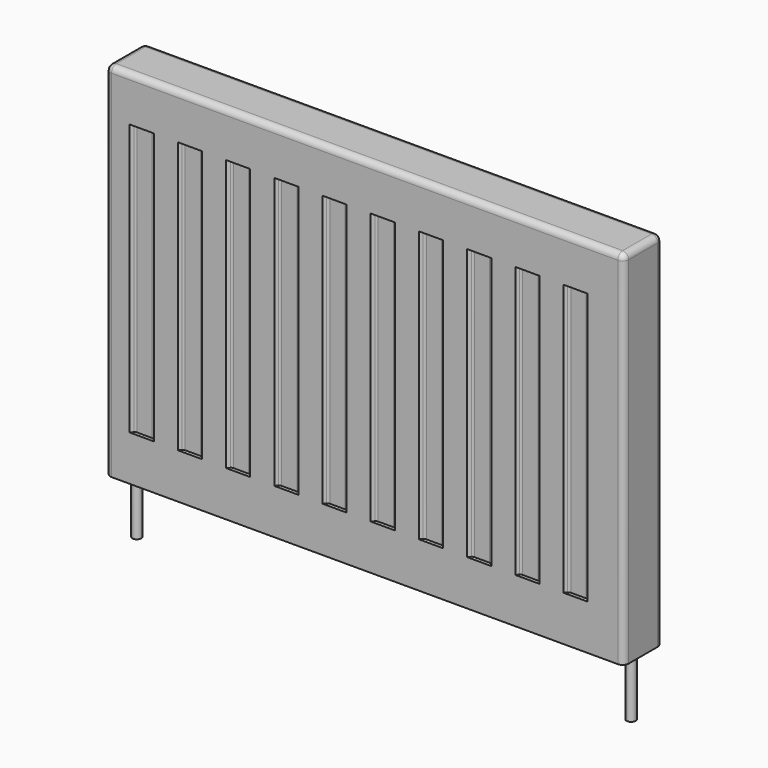
from build123d import *

# Parameters (mm, degrees)
F0_W     = 860
F0_H     = 80
F1_DEPTH = 300
F2_R     = 7.5
F3_DEPTH = 100
F5_DEPTH = 225
F6_R     = 10


with BuildPart() as f1:
    # F0 (on Top) → F1 (new body, symmetric)
    with BuildSketch(Plane.XY):
        with Locations((84.33931, -58.683639)):
            Rectangle(F0_W, F0_H)
    extrude(amount=F1_DEPTH, both=True)

    # F2 (on face) → F3 (join)
    with BuildSketch(Plane(origin=(0, 0, -300), x_dir=(1, 0, 0), z_dir=(0, 0, -1))):
        with Locations((494.33931, 58.683639)):
            Circle(F2_R)
        with Locations((-325.66069, 58.683639)):
            Circle(F2_R)
    extrude(amount=F3_DEPTH)

    # F4 (on Top) → F5 (cut, symmetric)
    with BuildSketch(Plane.XY):
        with BuildLine():
            Line((-265.66069, -18.683639), (-305.66069, -18.683639))
            Line((-305.66069, -18.683639), (-302.124776, -22.897577))
            ThreePointArc((-302.124776, -22.897577), (-300.407645, -24.215178), (-298.294554, -24.683639))
            Line((-298.294554, -24.683639), (-273.026826, -24.683639))
            ThreePointArc((-273.026826, -24.683639), (-270.913735, -24.215178), (-269.196604, -22.897577))
            Line((-269.196604, -22.897577), (-265.66069, -18.683639))
        make_face()
        with BuildLine():
            Line((-185.66069, -18.683639), (-225.66069, -18.683639))
            Line((-225.66069, -18.683639), (-222.124776, -22.897577))
            ThreePointArc((-222.124776, -22.897577), (-220.407645, -24.215178), (-218.294554, -24.683639))
            Line((-218.294554, -24.683639), (-193.026826, -24.683639))
            ThreePointArc((-193.026826, -24.683639), (-190.913735, -24.215178), (-189.196604, -22.897577))
            Line((-189.196604, -22.897577), (-185.66069, -18.683639))
        make_face()
        with BuildLine():
            Line((-105.66069, -18.683639), (-145.66069, -18.683639))
            Line((-145.66069, -18.683639), (-142.124776, -22.897577))
            ThreePointArc((-142.124776, -22.897577), (-140.407645, -24.215178), (-138.294554, -24.683639))
            Line((-138.294554, -24.683639), (-113.026826, -24.683639))
            ThreePointArc((-113.026826, -24.683639), (-110.913735, -24.215178), (-109.196604, -22.897577))
            Line((-109.196604, -22.897577), (-105.66069, -18.683639))
        make_face()
        with BuildLine():
            Line((-25.66069, -18.683639), (-65.66069, -18.683639))
            Line((-65.66069, -18.683639), (-62.124776, -22.897577))
            ThreePointArc((-62.124776, -22.897577), (-60.407645, -24.215178), (-58.294554, -24.683639))
            Line((-58.294554, -24.683639), (-33.026826, -24.683639))
            ThreePointArc((-33.026826, -24.683639), (-30.913735, -24.215178), (-29.196604, -22.897577))
            Line((-29.196604, -22.897577), (-25.66069, -18.683639))
        make_face()
        with BuildLine():
            Line((54.33931, -18.683639), (14.33931, -18.683639))
            Line((14.33931, -18.683639), (17.875224, -22.897577))
            ThreePointArc((17.875224, -22.897577), (19.592355, -24.215178), (21.705446, -24.683639))
            Line((21.705446, -24.683639), (46.973174, -24.683639))
            ThreePointArc((46.973174, -24.683639), (49.086265, -24.215178), (50.803396, -22.897577))
            Line((50.803396, -22.897577), (54.33931, -18.683639))
        make_face()
        with BuildLine():
            Line((134.33931, -18.683639), (94.33931, -18.683639))
            Line((94.33931, -18.683639), (97.875224, -22.897577))
            ThreePointArc((97.875224, -22.897577), (99.592355, -24.215178), (101.705446, -24.683639))
            Line((101.705446, -24.683639), (126.973174, -24.683639))
            ThreePointArc((126.973174, -24.683639), (129.086265, -24.215178), (130.803396, -22.897577))
            Line((130.803396, -22.897577), (134.33931, -18.683639))
        make_face()
        with BuildLine():
            Line((214.33931, -18.683639), (174.33931, -18.683639))
            Line((174.33931, -18.683639), (177.875224, -22.897577))
            ThreePointArc((177.875224, -22.897577), (179.592355, -24.215178), (181.705446, -24.683639))
            Line((181.705446, -24.683639), (206.973174, -24.683639))
            ThreePointArc((206.973174, -24.683639), (209.086265, -24.215178), (210.803396, -22.897577))
            Line((210.803396, -22.897577), (214.33931, -18.683639))
        make_face()
        with BuildLine():
            Line((294.33931, -18.683639), (254.33931, -18.683639))
            Line((254.33931, -18.683639), (257.875224, -22.897577))
            ThreePointArc((257.875224, -22.897577), (259.592355, -24.215178), (261.705446, -24.683639))
            Line((261.705446, -24.683639), (286.973174, -24.683639))
            ThreePointArc((286.973174, -24.683639), (289.086265, -24.215178), (290.803396, -22.897577))
            Line((290.803396, -22.897577), (294.33931, -18.683639))
        make_face()
        with BuildLine():
            Line((374.33931, -18.683639), (334.33931, -18.683639))
            Line((334.33931, -18.683639), (337.875224, -22.897577))
            ThreePointArc((337.875224, -22.897577), (339.592355, -24.215178), (341.705446, -24.683639))
            Line((341.705446, -24.683639), (366.973174, -24.683639))
            ThreePointArc((366.973174, -24.683639), (369.086265, -24.215178), (370.803396, -22.897577))
            Line((370.803396, -22.897577), (374.33931, -18.683639))
        make_face()
        with BuildLine():
            Line((454.33931, -18.683639), (414.33931, -18.683639))
            Line((414.33931, -18.683639), (417.875224, -22.897577))
            ThreePointArc((417.875224, -22.897577), (419.592355, -24.215178), (421.705446, -24.683639))
            Line((421.705446, -24.683639), (446.973174, -24.683639))
            ThreePointArc((446.973174, -24.683639), (449.086265, -24.215178), (450.803396, -22.897577))
            Line((450.803396, -22.897577), (454.33931, -18.683639))
        make_face()
        with BuildLine():
            ThreePointArc((-298.294554, -92.683639), (-300.407645, -93.1521), (-302.124776, -94.469701))
            Line((-302.124776, -94.469701), (-305.66069, -98.683639))
            Line((-305.66069, -98.683639), (-265.66069, -98.683639))
            Line((-265.66069, -98.683639), (-269.196604, -94.469701))
            ThreePointArc((-269.196604, -94.469701), (-270.913735, -93.1521), (-273.026826, -92.683639))
            Line((-273.026826, -92.683639), (-298.294554, -92.683639))
        make_face()
        with BuildLine():
            Line((-222.124776, -94.469701), (-225.66069, -98.683639))
            Line((-225.66069, -98.683639), (-185.66069, -98.683639))
            Line((-185.66069, -98.683639), (-189.196604, -94.469701))
            ThreePointArc((-189.196604, -94.469701), (-190.913735, -93.1521), (-193.026826, -92.683639))
            Line((-193.026826, -92.683639), (-218.294554, -92.683639))
            ThreePointArc((-218.294554, -92.683639), (-220.407645, -93.1521), (-222.124776, -94.469701))
        make_face()
        with BuildLine():
            ThreePointArc((290.803396, -94.469701), (289.086265, -93.1521), (286.973174, -92.683639))
            Line((286.973174, -92.683639), (261.705446, -92.683639))
            ThreePointArc((261.705446, -92.683639), (259.592355, -93.1521), (257.875224, -94.469701))
            Line((257.875224, -94.469701), (254.33931, -98.683639))
            Line((254.33931, -98.683639), (294.33931, -98.683639))
            Line((294.33931, -98.683639), (290.803396, -94.469701))
        make_face()
        with BuildLine():
            Line((-62.124776, -94.469701), (-65.66069, -98.683639))
            Line((-65.66069, -98.683639), (-25.66069, -98.683639))
            Line((-25.66069, -98.683639), (-29.196604, -94.469701))
            ThreePointArc((-29.196604, -94.469701), (-30.913735, -93.1521), (-33.026826, -92.683639))
            Line((-33.026826, -92.683639), (-58.294554, -92.683639))
            ThreePointArc((-58.294554, -92.683639), (-60.407645, -93.1521), (-62.124776, -94.469701))
        make_face()
        with BuildLine():
            Line((-105.66069, -98.683639), (-109.196604, -94.469701))
            ThreePointArc((-109.196604, -94.469701), (-110.913735, -93.1521), (-113.026826, -92.683639))
            Line((-113.026826, -92.683639), (-138.294554, -92.683639))
            ThreePointArc((-138.294554, -92.683639), (-140.407645, -93.1521), (-142.124776, -94.469701))
            Line((-142.124776, -94.469701), (-145.66069, -98.683639))
            Line((-145.66069, -98.683639), (-105.66069, -98.683639))
        make_face()
        with BuildLine():
            Line((417.875224, -94.469701), (414.33931, -98.683639))
            Line((414.33931, -98.683639), (454.33931, -98.683639))
            Line((454.33931, -98.683639), (450.803396, -94.469701))
            ThreePointArc((450.803396, -94.469701), (449.086265, -93.1521), (446.973174, -92.683639))
            Line((446.973174, -92.683639), (421.705446, -92.683639))
            ThreePointArc((421.705446, -92.683639), (419.592355, -93.1521), (417.875224, -94.469701))
        make_face()
        with BuildLine():
            Line((17.875224, -94.469701), (14.33931, -98.683639))
            Line((14.33931, -98.683639), (54.33931, -98.683639))
            Line((54.33931, -98.683639), (50.803396, -94.469701))
            ThreePointArc((50.803396, -94.469701), (49.086265, -93.1521), (46.973174, -92.683639))
            Line((46.973174, -92.683639), (21.705446, -92.683639))
            ThreePointArc((21.705446, -92.683639), (19.592355, -93.1521), (17.875224, -94.469701))
        make_face()
        with BuildLine():
            Line((134.33931, -98.683639), (130.803396, -94.469701))
            ThreePointArc((130.803396, -94.469701), (129.086265, -93.1521), (126.973174, -92.683639))
            Line((126.973174, -92.683639), (101.705446, -92.683639))
            ThreePointArc((101.705446, -92.683639), (99.592355, -93.1521), (97.875224, -94.469701))
            Line((97.875224, -94.469701), (94.33931, -98.683639))
            Line((94.33931, -98.683639), (134.33931, -98.683639))
        make_face()
        with BuildLine():
            ThreePointArc((370.803396, -94.469701), (369.086265, -93.1521), (366.973174, -92.683639))
            Line((366.973174, -92.683639), (341.705446, -92.683639))
            ThreePointArc((341.705446, -92.683639), (339.592355, -93.1521), (337.875224, -94.469701))
            Line((337.875224, -94.469701), (334.33931, -98.683639))
            Line((334.33931, -98.683639), (374.33931, -98.683639))
            Line((374.33931, -98.683639), (370.803396, -94.469701))
        make_face()
        with BuildLine():
            Line((177.875224, -94.469701), (174.33931, -98.683639))
            Line((174.33931, -98.683639), (214.33931, -98.683639))
            Line((214.33931, -98.683639), (210.803396, -94.469701))
            ThreePointArc((210.803396, -94.469701), (209.086265, -93.1521), (206.973174, -92.683639))
            Line((206.973174, -92.683639), (181.705446, -92.683639))
            ThreePointArc((181.705446, -92.683639), (179.592355, -93.1521), (177.875224, -94.469701))
        make_face()
    extrude(amount=F5_DEPTH, both=True, mode=Mode.SUBTRACT)

    # F6
    f6_edges = [f1.edges().sort_by_distance(p)[0] for p in [
        (-345.66069, -98.683639, 0),
        (-345.66069, -18.683639, 0),
        (514.33931, -98.683639, 0),
        (514.33931, -18.683639, 0),
        (84.33931, -98.683639, 300),
        (84.33931, -18.683639, 300),
        (514.33931, -58.683639, 300),
        (-345.66069, -58.683639, 300),
    ]]
    fillet(f6_edges, radius=F6_R)


solid = f1.part
